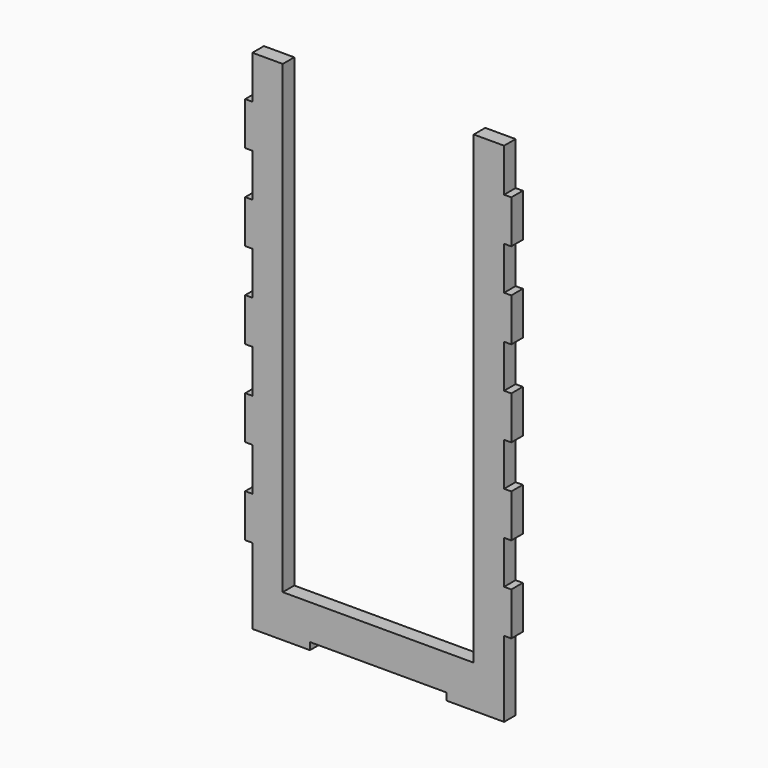
from build123d import *

# Parameters (mm, degrees)
F0_W     = 101.6
F0_H     = 12.7
F1_DEPTH = 25.4
F2_W     = 168.6520413041
F2_H     = 61.9295807295
F2_H_2   = 759.2988385411
F3_DEPTH = 25.401


with BuildPart() as f1:
    # F0 (on Front) → F1 (new body)
    with BuildSketch(Plane.XZ):
        Polygon((128.9281710505, -699.8807162309), (128.9281710505, 183.2772837691), (-93.3218289495, 183.2772837691), (-93.3218289495, 107.0772837691), (-106.0218289495, 107.0772837691), (-106.0218289495, 30.8772837691), (-93.3218289495, 30.8772837691), (-93.3218289495, -45.3227162309), (-106.0218289495, -45.3227162309), (-106.0218289495, -121.5227162309), (-93.3218289495, -121.5227162309), (-93.3218289495, -197.7227162309), (-106.0218289495, -197.7227162309), (-106.0218289495, -273.9227162309), (-93.3218289495, -273.9227162309), (-93.3218289495, -350.1227162309), (-106.0218289495, -350.1227162309), (-106.0218289495, -426.3227162309), (-93.3218289495, -426.3227162309), (-93.3218289495, -502.5227162309), (-106.0218289495, -502.5227162309), (-106.0218289495, -578.7227162309), (-93.3218289495, -578.7227162309), (-93.3218289495, -699.8807162309), (8.2781710505, -699.8807162309), align=None)
        Polygon((351.1781710505, 183.2772837691), (128.9281710505, 183.2772837691), (128.9281710505, -699.8807162309), (249.5781710505, -699.8807162309), (351.1781710505, -699.8807162309), (351.1781710505, -578.7227162309), (363.8781710505, -578.7227162309), (363.8781710505, -502.5227162309), (351.1781710505, -502.5227162309), (351.1781710505, -426.3227162309), (363.8781710505, -426.3227162309), (363.8781710505, -350.1227162309), (351.1781710505, -350.1227162309), (351.1781710505, -273.9227162309), (363.8781710505, -273.9227162309), (363.8781710505, -197.7227162309), (351.1781710505, -197.7227162309), (351.1781710505, -121.5227162309), (363.8781710505, -121.5227162309), (363.8781710505, -45.3227162309), (351.1781710505, -45.3227162309), (351.1781710505, 30.8772837691), (363.8781710505, 30.8772837691), (363.8781710505, 107.0772837691), (351.1781710505, 107.0772837691), align=None)
        with Locations((-42.5218289495, -706.2307162309)):
            Rectangle(F0_W, F0_H)
        with Locations((300.3781710505, -706.2307162309)):
            Rectangle(F0_W, F0_H)
    extrude(amount=F1_DEPTH)

    # F2 (on face) → F3 (cut, through all)
    with BuildSketch(Plane.XZ.offset(25.4)):
        with Locations((213.2541917026, 152.3124934044)):
            Rectangle(F2_W, F2_H)
        with Locations((44.6021503985, 152.3124934044)):
            Rectangle(F2_W, F2_H)
        with Locations((213.2541917026, -258.3017162309)):
            Rectangle(F2_W, F2_H_2)
        with Locations((44.6021503985, -258.3017162309)):
            Rectangle(F2_W, F2_H_2)
    extrude(amount=-F3_DEPTH, mode=Mode.SUBTRACT)


solid = f1.part
